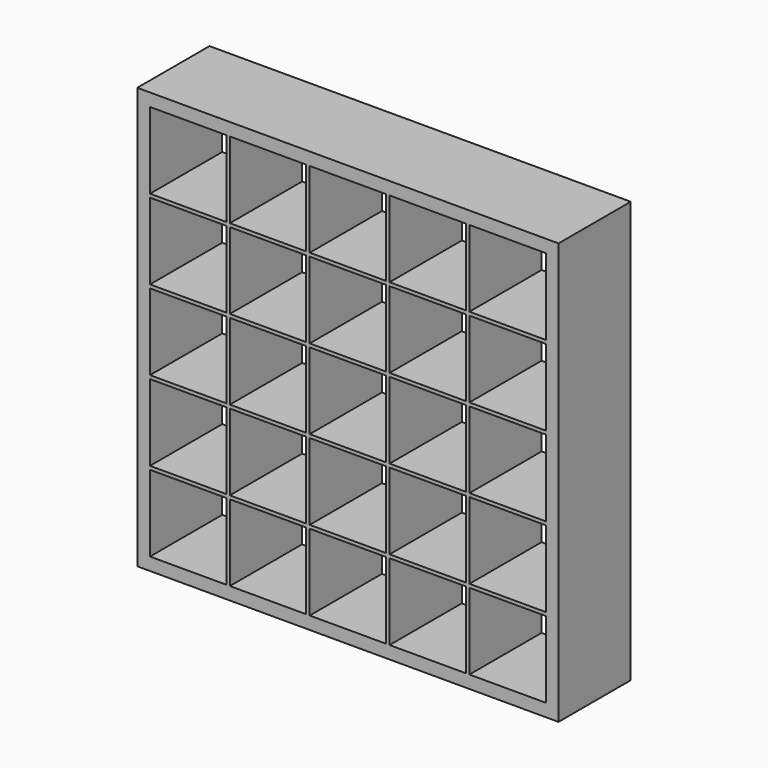
from build123d import *

# Parameters (mm, degrees)
F0_W     = 1820
F0_H     = 1820
F1_DEPTH = 390
F2_W     = 330
F2_H     = 330
F3_DEPTH = 740.61349


with BuildPart() as f1:
    # F0 (on Front) → F1 (new body)
    with BuildSketch(Plane.XZ):
        with Locations((910, 910)):
            Rectangle(F0_W, F0_H)
    extrude(amount=F1_DEPTH)

    # F2 (on Front) → F3 (cut)
    with BuildSketch(Plane.XZ):
        with Locations((220, 220)):
            Rectangle(F2_W, F2_H)
        with Locations((220, 565)):
            Rectangle(F2_W, F2_H)
        with Locations((220, 910)):
            Rectangle(F2_W, F2_H)
        with Locations((220, 1255)):
            Rectangle(F2_W, F2_H)
        with Locations((220, 1600)):
            Rectangle(F2_W, F2_H)
        with Locations((565, 220)):
            Rectangle(F2_W, F2_H)
        with Locations((565, 565)):
            Rectangle(F2_W, F2_H)
        with Locations((565, 910)):
            Rectangle(F2_W, F2_H)
        with Locations((565, 1255)):
            Rectangle(F2_W, F2_H)
        with Locations((565, 1600)):
            Rectangle(F2_W, F2_H)
        with Locations((910, 220)):
            Rectangle(F2_W, F2_H)
        with Locations((910, 565)):
            Rectangle(F2_W, F2_H)
        with Locations((910, 910)):
            Rectangle(F2_W, F2_H)
        with Locations((910, 1255)):
            Rectangle(F2_W, F2_H)
        with Locations((910, 1600)):
            Rectangle(F2_W, F2_H)
        with Locations((1255, 220)):
            Rectangle(F2_W, F2_H)
        with Locations((1255, 565)):
            Rectangle(F2_W, F2_H)
        with Locations((1255, 910)):
            Rectangle(F2_W, F2_H)
        with Locations((1255, 1255)):
            Rectangle(F2_W, F2_H)
        with Locations((1255, 1600)):
            Rectangle(F2_W, F2_H)
        with Locations((1600, 220)):
            Rectangle(F2_W, F2_H)
        with Locations((1600, 565)):
            Rectangle(F2_W, F2_H)
        with Locations((1600, 910)):
            Rectangle(F2_W, F2_H)
        with Locations((1600, 1255)):
            Rectangle(F2_W, F2_H)
        with Locations((1600, 1600)):
            Rectangle(F2_W, F2_H)
    extrude(amount=F3_DEPTH, mode=Mode.SUBTRACT)


solid = f1.part
